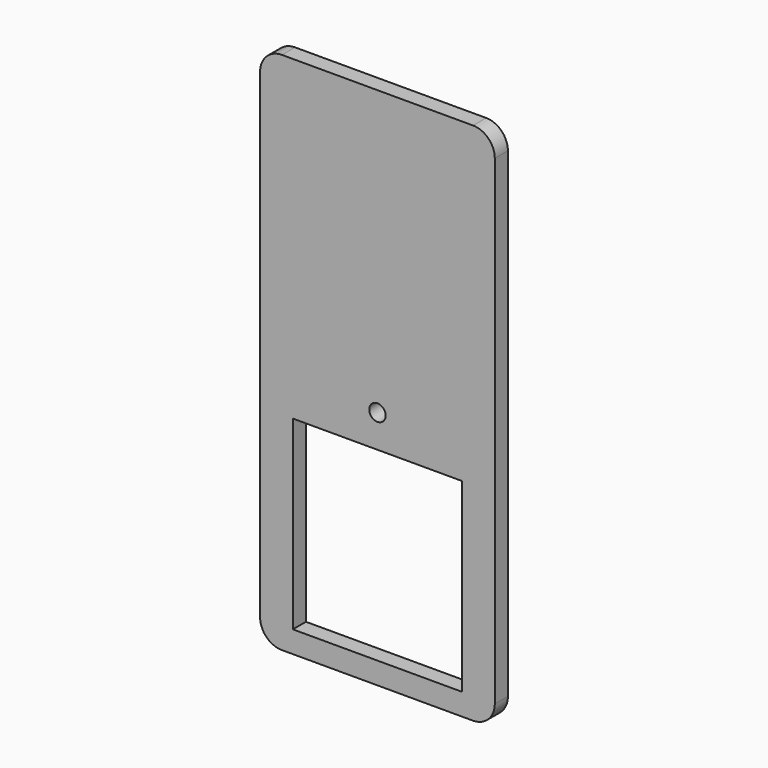
from build123d import *

# Parameters (mm, degrees)
F0_W     = 25.4
F0_H     = 163.656833449
F0_W_2   = 136.525
F0_H_2   = 46.7590987682
F1_DEPTH = 19.05


with BuildPart() as f1:
    # F0 (on Front) → F1 (new body)
    with BuildSketch(Plane.XZ):
        with Locations((-79.4005683911, 253.7749098346)):
            Rectangle(F0_W, F0_H)
        Polygon((-66.7005683911, 171.9464931101), (-92.1005683911, 171.9464931101), (-92.1005683911, 146.5464931101), (-79.4005683911, 146.5464931101), (-79.4005683911, -12.6218702644), (-54.0005683911, -12.6218702644), (-54.0005683911, 108.4464931101), (142.8494316089, 108.4464931101), (142.8494316089, -107.4535068899), (180.9494316089, -107.4535068899), (180.9494316089, 171.9464931101), (180.9494316089, 288.8442277908), (44.4244316089, 288.8442277908), (44.4244316089, 335.6033265591), (-66.7005683911, 335.6033265591), align=None)
        with BuildLine():
            ThreePointArc((53.9494316089, 146.5464931101), (44.4244316089, 137.0214931101), (34.8994316089, 146.5464931101))
            ThreePointArc((34.8994316089, 146.5464931101), (44.4244316089, 156.0714931101), (53.9494316089, 146.5464931101))
        make_face(mode=Mode.SUBTRACT)
        Polygon((-79.4005683911, 146.5464931101), (-92.1005683911, 146.5464931101), (-92.1005683911, 121.1464931101), (-92.1005683911, -12.6218702644), (-79.4005683911, -12.6218702644), align=None)
        with BuildLine():
            Line((-92.1005683911, 451.3464931101), (-92.1005683911, 335.6033265591))
            Line((-92.1005683911, 335.6033265591), (-66.7005683911, 335.6033265591))
            Line((-66.7005683911, 335.6033265591), (44.4244316089, 335.6033265591))
            Line((44.4244316089, 335.6033265591), (180.9494316089, 335.6033265591))
            Line((180.9494316089, 335.6033265591), (180.9494316089, 451.3464931101))
            ThreePointArc((180.9494316089, 451.3464931101), (173.509943851, 469.3070053522), (155.5494316089, 476.7464931101))
            Line((155.5494316089, 476.7464931101), (-66.7005683911, 476.7464931101))
            ThreePointArc((-66.7005683911, 476.7464931101), (-84.6610806333, 469.3070053522), (-92.1005683911, 451.3464931101))
        make_face()
        with Locations((112.6869316089, 312.2237771749)):
            Rectangle(F0_W_2, F0_H_2)
        with BuildLine():
            Line((-79.4005683911, -12.6218702644), (-92.1005683911, -12.6218702644))
            Line((-92.1005683911, -12.6218702644), (-92.1005683911, -107.4535068899))
            ThreePointArc((-92.1005683911, -107.4535068899), (-88.6976136472, -120.1535068899), (-79.4005683911, -129.4505521461))
            Line((-79.4005683911, -129.4505521461), (-79.4005683911, -12.6218702644))
        make_face()
        with BuildLine():
            Line((-54.0005683911, -12.6218702644), (-79.4005683911, -12.6218702644))
            Line((-79.4005683911, -12.6218702644), (-79.4005683911, -129.4505521461))
            ThreePointArc((-79.4005683911, -129.4505521461), (-73.2745721367, -131.9880228777), (-66.7005683911, -132.8535068899))
            Line((-66.7005683911, -132.8535068899), (39.5014062524, -132.8535068899))
            Line((39.5014062524, -132.8535068899), (39.5014062524, -107.4535068899))
            Line((39.5014062524, -107.4535068899), (-54.0005683911, -107.4535068899))
            Line((-54.0005683911, -107.4535068899), (-54.0005683911, -12.6218702644))
        make_face()
        Polygon((39.5014062524, -107.4535068899), (39.5014062524, -132.8535068899), (104.7494316089, -132.8535068899), (104.7494316089, -107.4535068899), (95.2244316089, -107.4535068899), align=None)
        with BuildLine():
            ThreePointArc((155.5494316089, -132.8535068899), (173.509943851, -125.4140191321), (180.9494316089, -107.4535068899))
            Line((180.9494316089, -107.4535068899), (142.8494316089, -107.4535068899))
            Line((142.8494316089, -107.4535068899), (104.7494316089, -107.4535068899))
            Line((104.7494316089, -107.4535068899), (104.7494316089, -132.8535068899))
            Line((104.7494316089, -132.8535068899), (155.5494316089, -132.8535068899))
        make_face()
    extrude(amount=F1_DEPTH)


solid = f1.part
